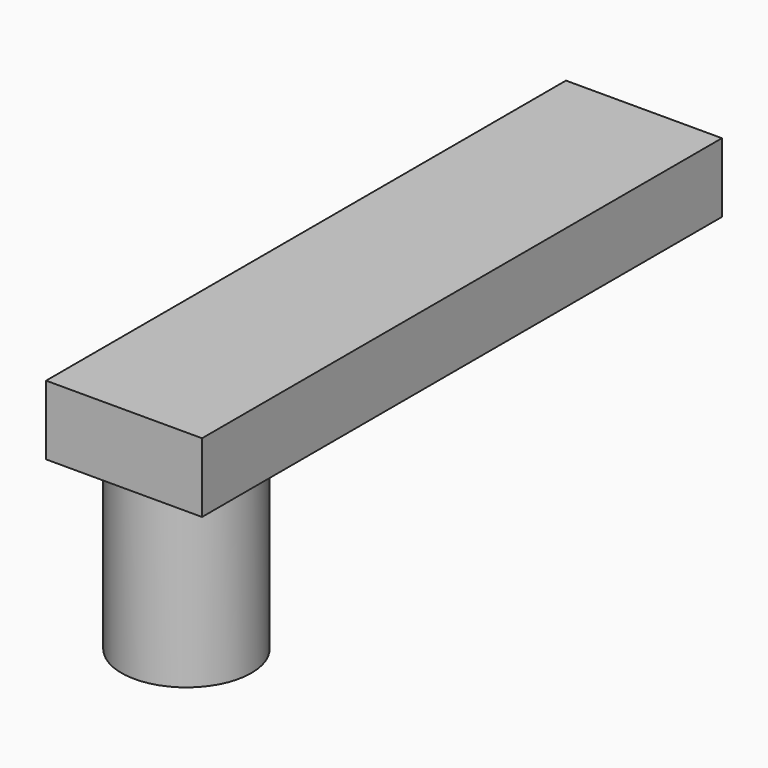
from build123d import *

# Parameters (mm, degrees)
F0_W     = 36
F0_H     = 16
F1_DEPTH = 150
F2_R     = 15
F3_DEPTH = 40


with BuildPart() as f1:
    # F0 (on Front) → F1 (new body)
    with BuildSketch(Plane.XZ):
        with Locations((12.236034, -19.108166)):
            Rectangle(F0_W, F0_H)
    extrude(amount=F1_DEPTH)

    # F2 (on face) → F3 (join)
    with BuildSketch(Plane(origin=(0, 0, -27.108166), x_dir=(1, 0, 0), z_dir=(0, 0, -1))):
        with Locations((12.236034, 132)):
            Circle(F2_R)
    extrude(amount=F3_DEPTH)


solid = f1.part
